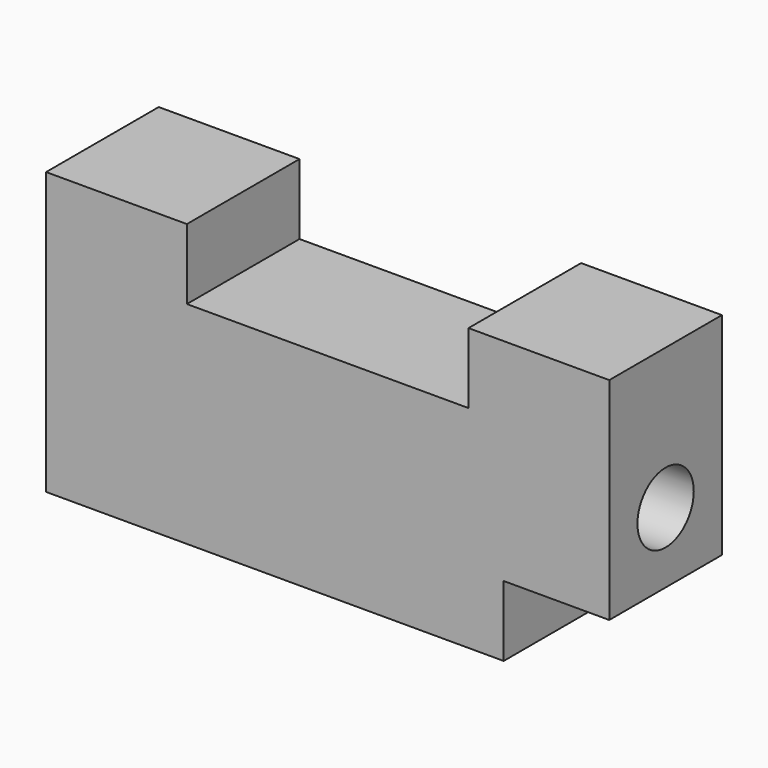
from build123d import *

# Parameters (mm, degrees)
F0_W     = 101.6
F0_H     = 50.8
F1_DEPTH = 25.4
F2_W     = 50.8
F2_H     = 12.7
F3_DEPTH = 25.4
F4_W     = 19.05
F4_H     = 12.7
F5_DEPTH = 25.4
F6_R     = 6.35
F7_DEPTH = 101.6


with BuildPart() as f1:
    # F0 (on Front) → F1 (new body)
    with BuildSketch(Plane.XZ):
        Rectangle(F0_W, F0_H)
    extrude(amount=F1_DEPTH)

    # F2 (on face) → F3 (cut)
    with BuildSketch(Plane.XZ.offset(25.4)):
        with Locations((0, 19.05)):
            Rectangle(F2_W, F2_H)
    extrude(amount=-F3_DEPTH, mode=Mode.SUBTRACT)

    # F4 (on face) → F5 (cut)
    with BuildSketch(Plane.XZ.offset(25.4)):
        with Locations((41.275, -19.05)):
            Rectangle(F4_W, F4_H)
    extrude(amount=-F5_DEPTH, mode=Mode.SUBTRACT)

    # F6 (on face) → F7 (cut)
    with BuildSketch(Plane.YZ.offset(50.8)):
        with Locations((-12.7, 0)):
            Circle(F6_R)
    extrude(amount=-F7_DEPTH, mode=Mode.SUBTRACT)


solid = f1.part
